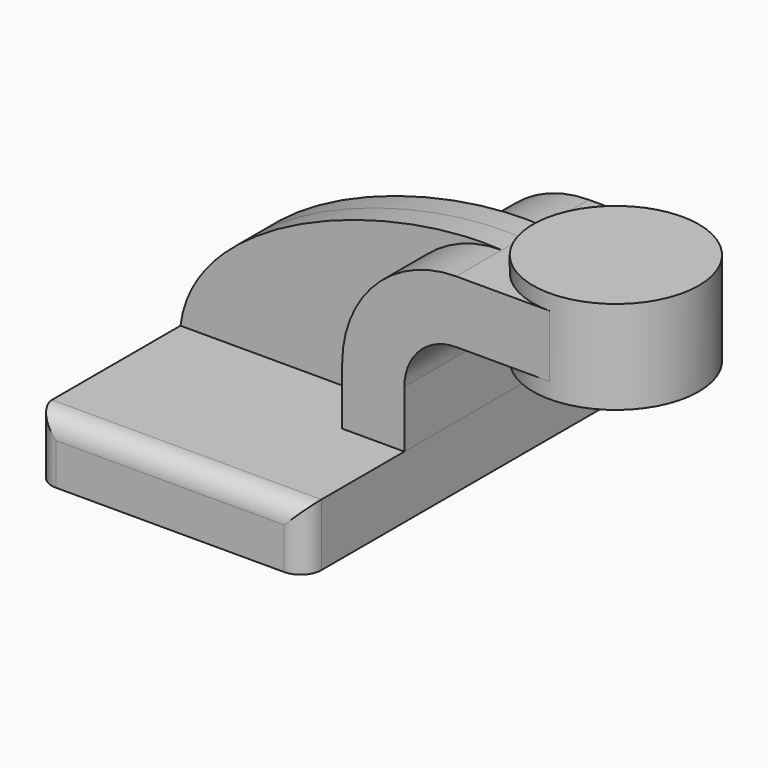
from build123d import *

# Parameters (mm, degrees)
F1_DEPTH = 63.5
F0_W     = 25.4
F0_H     = 19.05
F2_DEPTH = 25.4
F3_DEPTH = 7.9375
F5_R     = 6.35


with BuildPart() as f1:
    # F0 (on Front) → F1 (new body, symmetric)
    with BuildSketch(Plane.XZ):
        Polygon((22.225, 9.525), (-41.275, 9.525), (-41.275, -9.525), (41.275, -9.525), (41.275, 9.525), align=None)
    extrude(amount=F1_DEPTH, both=True)

    # F5
    f5_edges = [f1.edges().sort_by_distance(p)[0] for p in [
        (-41.275, -63.5, 0),
        (41.275, -63.5, 0),
        (41.275, 63.5, 0),
        (-41.275, 63.5, 0),
        (0, -63.5, 9.525),
    ]]
    fillet(f5_edges, radius=F5_R)


with BuildPart() as f2:
    # F0 (on Front) → F2 (new body, symmetric)
    with BuildSketch(Plane.XZ):
        with BuildLine():
            Line((22.225, 27.0002), (22.225, 9.525))
            Line((22.225, 9.525), (41.275, 9.525))
            Line((41.275, 9.525), (41.275, 27.0002))
            ThreePointArc((41.275, 27.0002), (45.9246798487, 38.2255201513), (57.15, 42.8752))
            Line((57.15, 42.8752), (60.325, 42.8752))
            Line((60.325, 42.8752), (60.325, 61.9252))
            Line((60.325, 61.9252), (57.15, 61.9252))
            ThreePointArc((57.15, 61.9252), (32.4542956671, 51.6959043329), (22.225, 27.0002))
        make_face()
        with Locations((73.025, 52.4002)):
            Rectangle(F0_W, F0_H)
    extrude(amount=F2_DEPTH, both=True)

    # F0 (on Front) → F4 (revolve)
    with BuildSketch(Plane.XZ):
        Polygon((85.725, 66.675), (85.725, 61.9252), (85.725, 42.8752), (85.725, 38.1), (111.125, 38.1), (111.125, 66.675), align=None)
    revolve(axis=Axis((85.725, 0, 52.3875), (0, 0, 1)))


with BuildPart() as f3:
    # F0 (on Front) → F3 (new body, symmetric)
    with BuildSketch(Plane.XZ):
        with BuildLine():
            add(Edge.make_bspline(
                [(-41.275, 9.525), (-37.1716171503, 43.0133752525), (21.4597117156, 64.264036715), (57.15, 61.9252)],
                knots=[0, 0, 0, 0, 111.5045361635, 111.5045361635, 111.5045361635, 111.5045361635], degree=3))
            Line((-41.275, 9.525), (22.225, 9.525))
            Line((22.225, 9.525), (22.225, 27.0002))
            ThreePointArc((22.225, 27.0002), (32.4542956671, 51.6959043329), (57.15, 61.9252))
        make_face()
    extrude(amount=F3_DEPTH, both=True)


solid = Compound([f1.part, f2.part, f3.part])
